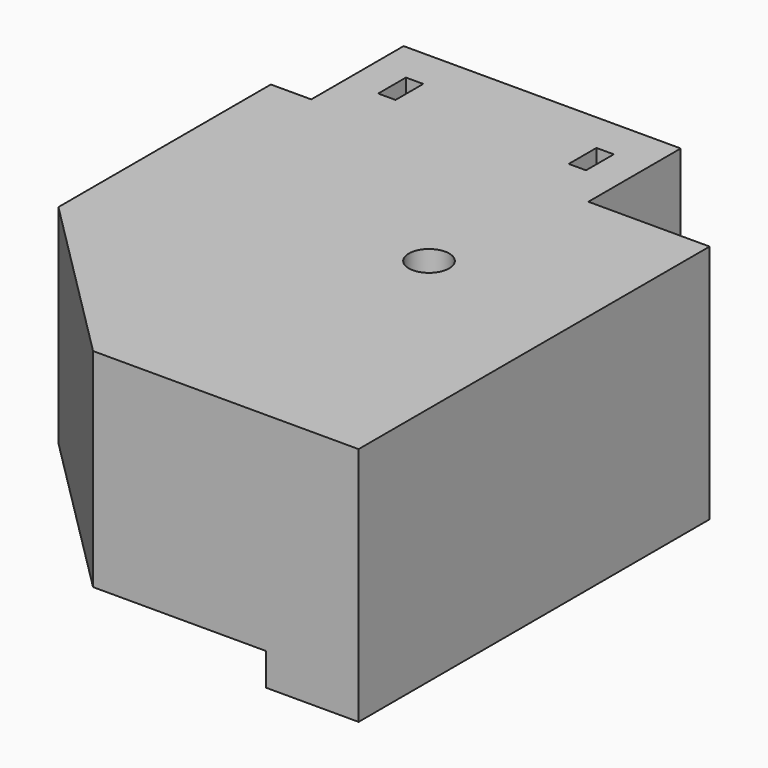
from build123d import *

# Parameters (mm, degrees)
F0_R      = 1.75
F1_DEPTH  = 18
F2_DEPTH  = 2.8
F6_R      = 2
F7_DEPTH  = 10
F8_DEPTH  = 20
F9_W      = 1.5
F9_H      = 3
F10_DEPTH = 25


with BuildPart() as f1:
    # F0 (on Top) → F1 (new body)
    with BuildSketch(Plane.XY):
        Polygon((5.5, -24.5), (5.5, 0), (5.5, 5.5), (0, 5.5), (-24.5, 5.5), (-24.5, -9.5), (-9.5, -24.5), align=None)
        Circle(F0_R, mode=Mode.SUBTRACT)
        Polygon((5.5, 5.5), (5.5, 0), (5.5, -24.5), (13.5, -24.5), (13.5, 0), (13.5, 13.5), (0, 13.5), (-24.5, 13.5), (-24.5, 5.5), (0, 5.5), align=None)
    extrude(amount=F1_DEPTH)

    # F0 (on Top) → F2 (join)
    with BuildSketch(Plane.XY):
        Polygon((5.5, 5.5), (5.5, 0), (5.5, -24.5), (13.5, -24.5), (13.5, 0), (13.5, 13.5), (0, 13.5), (-24.5, 13.5), (-24.5, 5.5), (0, 5.5), align=None)
    extrude(amount=-F2_DEPTH)

    # F5: sweep along a path in F3
    with BuildLine(Plane.XY) as f5_path:
        ThreePointArc((-24.5, -2), (-13.5398448916, 2.5398448916), (-9, 13.5))
    # F4 (on face) → F5 (sweep, cut)
    with BuildSketch(Plane(origin=(-24.5, 0, 0), x_dir=(0, -1, 0), z_dir=(-1, 0, 0))):
        with BuildLine():
            Line((-5.5, 0), (9.5, 0))
            ThreePointArc((9.5, 0), (2, 7.5), (-5.5, 0))
        make_face()
    sweep(path=f5_path.line, mode=Mode.SUBTRACT)

    # F6 (on face) → F7 (join)
    with BuildSketch(Plane(origin=(0, 13.5, 0), x_dir=(-1, 0, 0), z_dir=(0, 1, 0))):
        with BuildLine():
            Line((21, 6), (21, 18))
            Line((21, 18), (-3, 18))
            Line((-3, 18), (-3, 6))
            Line((-3, 6), (4.5, 6))
            ThreePointArc((4.5, 6), (9, 7.5), (13.5, 6))
            Line((13.5, 6), (21, 6))
        make_face()
        with Locations((9, 12)):
            Circle(F6_R, mode=Mode.SUBTRACT)
    extrude(amount=F7_DEPTH)

    # F8 (cut): a face of the model
    f8_faces = [f1.faces().sort_by_distance(p)[0] for p in [
        (-9, 13.5, 12),
    ]]
    extrude(f8_faces, amount=-F8_DEPTH, mode=Mode.SUBTRACT)

    # F9 (on face) → F10 (cut)
    with BuildSketch(Plane(origin=(0, 0, 6), x_dir=(1, 0, 0), z_dir=(0, 0, -1))):
        with Locations((-17.25, -18.5)):
            Rectangle(F9_W, F9_H)
        with Locations((-0.75, -18.5)):
            Rectangle(F9_W, F9_H)
    extrude(amount=-F10_DEPTH, mode=Mode.SUBTRACT)


solid = f1.part
